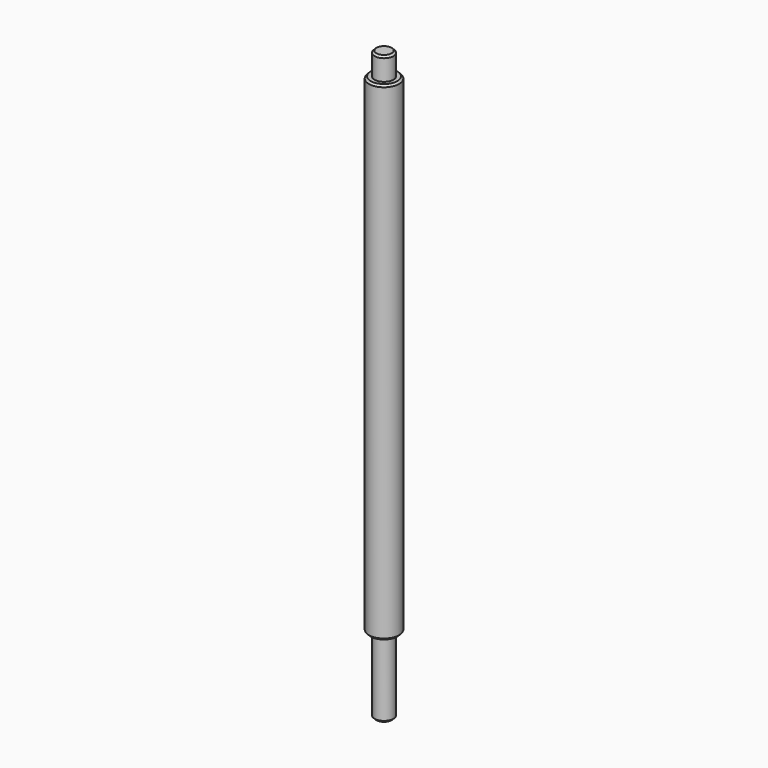
from build123d import *

# Parameters (mm, degrees)
F0_R     = 4
F1_DEPTH = 155.6
F2_R     = 6.5
F2_R_2   = 2.5
F3_DEPTH = 20
F4_R     = 4
F4_R_2   = 2.5
F5_DEPTH = 6
F6_SIZE  = 0.5


with BuildPart() as f1:
    # F0 (on Top) → F1 (new body)
    with BuildSketch(Plane.XY):
        Circle(F0_R)
    extrude(amount=F1_DEPTH)

    # F2 (on Top) → F3 (cut)
    with BuildSketch(Plane.XY):
        Circle(F2_R)
        Circle(F2_R_2, mode=Mode.SUBTRACT)
    extrude(amount=F3_DEPTH, mode=Mode.SUBTRACT)

    # F4 (on face) → F5 (cut)
    with BuildSketch(Plane.XY.offset(155.6)):
        Circle(F4_R)
        Circle(F4_R_2, mode=Mode.SUBTRACT)
        Circle(F4_R)
        Circle(F4_R_2, mode=Mode.SUBTRACT)
        Circle(F4_R)
        Circle(F4_R_2, mode=Mode.SUBTRACT)
    extrude(amount=-F5_DEPTH, mode=Mode.SUBTRACT)

    # F6
    f6_edges = [f1.edges().sort_by_distance(p)[0] for p in [
        (-2.5, 0, 0),
        (-4, 0, 20),
        (-4, 0, 149.6),
        (-2.5, 0, 155.6),
    ]]
    chamfer(f6_edges, length=F6_SIZE)


solid = f1.part
